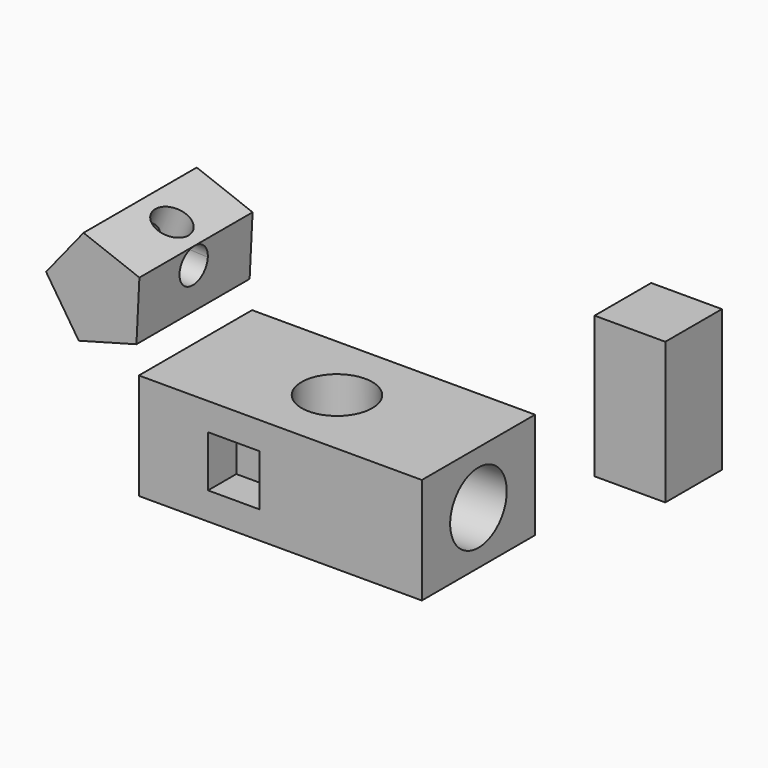
from build123d import *

# Parameters (mm, degrees)
F0_W      = 101.6
F0_H      = 50.8
F1_DEPTH  = 19.05
F2_R      = 12.7
F3_DEPTH  = 38.101
F4_R      = 12.7
F5_DEPTH  = 50.8
F7_DEPTH  = 50.8
F8_R      = 6.35
F9_DEPTH  = 92.3240785944
F11_DEPTH = 33.8433961016
F12_W     = 18.3963073453
F12_H     = 18.3963073453
F13_DEPTH = 12.7
F14_W     = 25.4
F14_H     = 50.8
F15_DEPTH = 25.4


with BuildPart() as f1:
    # F0 (on Top) → F1 (new body, symmetric)
    with BuildSketch(Plane.XY):
        Rectangle(F0_W, F0_H)
    extrude(amount=F1_DEPTH, both=True)

    # F2 (on face) → F3 (cut, through all)
    with BuildSketch(Plane.XY.offset(19.05)):
        Circle(F2_R)
    extrude(amount=-F3_DEPTH, mode=Mode.SUBTRACT)

    # F4 (on face) → F5 (cut)
    with BuildSketch(Plane.YZ.offset(50.8)):
        Circle(F4_R)
    extrude(amount=-F5_DEPTH, mode=Mode.SUBTRACT)

    # F12 (on face) → F13 (cut)
    with BuildSketch(Plane.XZ.offset(25.4)):
        with Locations((-16.7708438105, 0)):
            Rectangle(F12_W, F12_H)
    extrude(amount=-F13_DEPTH, mode=Mode.SUBTRACT)


with BuildPart() as f7:
    # F6 (on Front) → F7 (new body)
    with BuildSketch(Plane.XZ):
        Polygon((-52.0655937411, 39.9470913544), (-31.3585646532, 45.5552425847), (-30.293409534, 66.981811569), (-50.3421365549, 74.6160082333), (-63.7980864042, 57.9076322644), align=None)
    extrude(amount=F7_DEPTH)

    # F8 (on face) → F9 (cut, through all)
    with BuildSketch(Plane(origin=(18.4394534552, 0, 48.4252089633), x_dir=(0.9345406599, 0, -0.3558563684), z_dir=(0.3558563684, 0, 0.9345406599))):
        with Locations((-62.3406842351, -24.285223335)):
            Circle(F8_R)
    extrude(amount=-F9_DEPTH, mode=Mode.SUBTRACT)

    # F10 (on face) → F11 (cut, through all)
    with BuildSketch(Plane(origin=(-33.5403143827, 0, 1.6673522295), x_dir=(0, 1, 0), z_dir=(0.9987666498, 0, -0.0496505722))):
        with BuildLine():
            ThreePointArc((-26.0515995324, 65.3951144193), (-30.5417275929, 54.5549863587), (-19.7015995324, 59.0451144193))
            ThreePointArc((-19.7015995324, 59.0451144193), (-21.5614714718, 63.5352424798), (-26.0515995324, 65.3951144193))
        make_face()
    extrude(amount=-F11_DEPTH, mode=Mode.SUBTRACT)


with BuildPart() as f15:
    # F14 (on Right) → F15 (new body)
    with BuildSketch(Plane.YZ):
        with Locations((128.3194981515, -28.2437220309)):
            Rectangle(F14_W, F14_H)
    extrude(amount=F15_DEPTH)


solid = Compound([f1.part, f7.part, f15.part])
